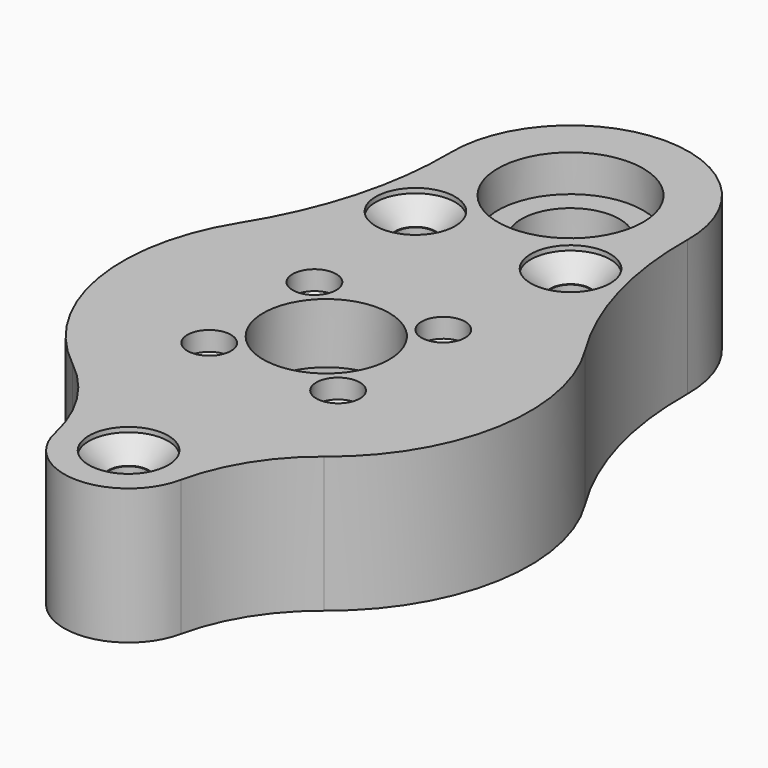
from build123d import *

# Parameters (mm, degrees)
CYLINDER015_R     = 2
CYLINDER015_DEPTH = 30
CYLINDER016_R     = 4.1
CYLINDER016_DEPTH = 0.5
CYLINDER017_R     = 2
CYLINDER017_DEPTH = 30
CYLINDER018_R     = 4.1
CYLINDER018_DEPTH = 0.5
CYLINDER013_R     = 2
CYLINDER013_DEPTH = 30
CYLINDER014_R     = 4.1
CYLINDER014_DEPTH = 0.5
CYLINDER001_R     = 2.4
CYLINDER001_DEPTH = 15.2
CYLINDER_R        = 17.2
CYLINDER_DEPTH    = 3.3
CYLINDER012_R     = 18
CYLINDER012_DEPTH = 11.1
BOX_W             = 10
BOX_H             = 8
BOX_DEPTH         = 3
CYLINDER007_R     = 7.5
CYLINDER007_DEPTH = 3.9
CYLINDER010_R     = 5.06
CYLINDER010_DEPTH = 15
CYLINDER004_R     = 7.5
CYLINDER004_DEPTH = 3.9
CYLINDER021_R     = 1.25
CYLINDER021_DEPTH = 8
CYLINDER022_R     = 2.25
CYLINDER022_DEPTH = 2.5
CYLINDER023_R     = 1.25
CYLINDER023_DEPTH = 8
CYLINDER024_R     = 2.25
CYLINDER024_DEPTH = 2.5
CYLINDER025_R     = 1.25
CYLINDER025_DEPTH = 8
CYLINDER026_R     = 2.25
CYLINDER026_DEPTH = 2.5
CYLINDER019_R     = 1.25
CYLINDER019_DEPTH = 8
CYLINDER020_R     = 2.25
CYLINDER020_DEPTH = 2.5
SKETCH_R          = 6.5
SKETCH_R_2        = 2.5
SKETCH_R_3        = 2
PAD_DEPTH         = 14


with BuildPart() as cone001:
    # Cone001 → Cone001 (revolve)
    with BuildSketch(Plane(origin=(0, -25.5, 18), x_dir=(1, 0, 0), z_dir=(0, -1, 0))):
        Polygon((0, 0), (2.1, 0), (4.1, 2), (0, 2), align=None)
    revolve(axis=Axis((0, -25.5, 18), (0, 0, 1)))


with BuildPart() as cylinders001:
    # Cylinder015 → Cylinder015 (new body)
    with BuildSketch(Plane(origin=(0, -25.5, -9.5), x_dir=(1, 0, 0), z_dir=(0, 0, 1))):
        Circle(CYLINDER015_R)
    extrude(amount=CYLINDER015_DEPTH)


with BuildPart() as fusion015:
    # Cylinder016 → Cylinder016 (new body)
    with BuildSketch(Plane(origin=(0, -25.5, 20), x_dir=(1, 0, 0), z_dir=(0, 0, 1))):
        Circle(CYLINDER016_R)
    extrude(amount=CYLINDER016_DEPTH)

    # Fusion015: union Cone001, CylinderS001
    add(cone001.part)
    add(cylinders001.part)


with BuildPart() as fusion015_1:
    # Fusion015 placement: moved
    add(fusion015.part.moved(Location((8, 47, 0.01))))


with BuildPart() as cone002:
    # Cone002 → Cone002 (revolve)
    with BuildSketch(Plane(origin=(0, -25.5, 18), x_dir=(1, 0, 0), z_dir=(0, -1, 0))):
        Polygon((0, 0), (2.1, 0), (4.1, 2), (0, 2), align=None)
    revolve(axis=Axis((0, -25.5, 18), (0, 0, 1)))


with BuildPart() as cylinders002:
    # Cylinder017 → Cylinder017 (new body)
    with BuildSketch(Plane(origin=(0, -25.5, -9.5), x_dir=(1, 0, 0), z_dir=(0, 0, 1))):
        Circle(CYLINDER017_R)
    extrude(amount=CYLINDER017_DEPTH)


with BuildPart() as fusion016:
    # Cylinder018 → Cylinder018 (new body)
    with BuildSketch(Plane(origin=(0, -25.5, 20), x_dir=(1, 0, 0), z_dir=(0, 0, 1))):
        Circle(CYLINDER018_R)
    extrude(amount=CYLINDER018_DEPTH)

    # Fusion016: union Cone002, CylinderS002
    add(cone002.part)
    add(cylinders002.part)


with BuildPart() as fusion016_1:
    # Fusion016 placement: moved
    add(fusion016.part.moved(Location((-8, 47, 0.01))))


with BuildPart() as cone:
    # Cone → Cone (revolve)
    with BuildSketch(Plane(origin=(0, -25.5, 18), x_dir=(1, 0, 0), z_dir=(0, -1, 0))):
        Polygon((0, 0), (2.1, 0), (4.1, 2), (0, 2), align=None)
    revolve(axis=Axis((0, -25.5, 18), (0, 0, 1)))


with BuildPart() as cylinders:
    # Cylinder013 → Cylinder013 (new body)
    with BuildSketch(Plane(origin=(0, -25.5, -9.5), x_dir=(1, 0, 0), z_dir=(0, 0, 1))):
        Circle(CYLINDER013_R)
    extrude(amount=CYLINDER013_DEPTH)


with BuildPart() as obj1:
    # Cylinder014 → Cylinder014 (new body)
    with BuildSketch(Plane(origin=(0, -25.5, 20), x_dir=(1, 0, 0), z_dir=(0, 0, 1))):
        Circle(CYLINDER014_R)
    extrude(amount=CYLINDER014_DEPTH)

    # Fusion014: union Cone, CylinderS
    add(cone.part)
    add(cylinders.part)


with BuildPart() as obj1_1:
    # Fusion014 placement: moved
    add(obj1.part.moved(Location((0, 0, 0.01))))

    # Fusion017: union Fusion015, Fusion016
    add(fusion015_1.part)
    add(fusion016_1.part)


with BuildPart() as motor_hole:
    # Cylinder001 → Cylinder001 (new body)
    with BuildSketch(Plane.XY):
        Circle(CYLINDER001_R)
    extrude(amount=CYLINDER001_DEPTH)


with BuildPart() as motor_stator:
    # Cylinder → Cylinder (new body)
    with BuildSketch(Plane.XY.offset(11)):
        Circle(CYLINDER_R)
    extrude(amount=CYLINDER_DEPTH)


with BuildPart() as motor:
    # Cylinder012 → Cylinder012 (new body)
    with BuildSketch(Plane.XY):
        Circle(CYLINDER012_R)
    extrude(amount=CYLINDER012_DEPTH)

    # Fusion011: union motor_stator
    add(motor_stator.part)

    # Cut: cut motor_hole
    add(motor_hole.part, mode=Mode.SUBTRACT)


with BuildPart() as wires:
    # Box → Box (new body)
    with BuildSketch(Plane(origin=(-23, -3.8, 11.5), x_dir=(1, 0, 0), z_dir=(0, 0, 1))):
        with Locations((5, 4)):
            Rectangle(BOX_W, BOX_H)
    extrude(amount=BOX_DEPTH)


with BuildPart() as bearing2:
    # Cylinder007 → Cylinder007 (new body)
    with BuildSketch(Plane.XY.offset(6.5)):
        Circle(CYLINDER007_R)
    extrude(amount=CYLINDER007_DEPTH)


with BuildPart() as bearingaxis:
    # Cylinder010 → Cylinder010 (new body)
    with BuildSketch(Plane.XY.offset(6)):
        Circle(CYLINDER010_R)
    extrude(amount=CYLINDER010_DEPTH)


with BuildPart() as bearings:
    # Cylinder004 → Cylinder004 (new body)
    with BuildSketch(Plane.XY.offset(16.7)):
        Circle(CYLINDER004_R)
    extrude(amount=CYLINDER004_DEPTH)

    # Fusion007: union Bearing2, BearingAxis
    add(bearing2.part)
    add(bearingaxis.part)


with BuildPart() as bearings_1:
    # Fusion007 placement: moved
    add(bearings.part.moved(Location((0, 31.5, 0))))


with BuildPart() as cylinder021:
    # Cylinder021 → Cylinder021 (new body)
    with BuildSketch(Plane.XY.offset(-10)):
        Circle(CYLINDER021_R)
    extrude(amount=CYLINDER021_DEPTH)


with BuildPart() as cylinder022:
    # Cylinder022 → Cylinder022 (new body)
    with BuildSketch(Plane.XY.offset(-2)):
        Circle(CYLINDER022_R)
    extrude(amount=CYLINDER022_DEPTH)


with BuildPart() as fusion020:
    # Cone004 → Cone004 (revolve)
    with BuildSketch(Plane(origin=(0, 0, -3), x_dir=(1, 0, 0), z_dir=(0, -1, 0))):
        Polygon((0, 0), (1.25, 0), (2.25, 1), (0, 1), align=None)
    revolve(axis=Axis((0, 0, -3), (0, 0, 1)))

    # Fusion020: union Cylinder021, Cylinder022
    add(cylinder021.part)
    add(cylinder022.part)


with BuildPart() as fusion020_1:
    # Fusion020 placement: moved
    add(fusion020.part.moved(Location((6.65, 6.785, 20.51))))


with BuildPart() as cylinder023:
    # Cylinder023 → Cylinder023 (new body)
    with BuildSketch(Plane.XY.offset(-10)):
        Circle(CYLINDER023_R)
    extrude(amount=CYLINDER023_DEPTH)


with BuildPart() as cylinder024:
    # Cylinder024 → Cylinder024 (new body)
    with BuildSketch(Plane.XY.offset(-2)):
        Circle(CYLINDER024_R)
    extrude(amount=CYLINDER024_DEPTH)


with BuildPart() as fusion021:
    # Cone005 → Cone005 (revolve)
    with BuildSketch(Plane(origin=(0, 0, -3), x_dir=(1, 0, 0), z_dir=(0, -1, 0))):
        Polygon((0, 0), (1.25, 0), (2.25, 1), (0, 1), align=None)
    revolve(axis=Axis((0, 0, -3), (0, 0, 1)))

    # Fusion021: union Cylinder023, Cylinder024
    add(cylinder023.part)
    add(cylinder024.part)


with BuildPart() as fusion021_1:
    # Fusion021 placement: moved
    add(fusion021.part.moved(Location((-6.65, -6.79, 20.51))))


with BuildPart() as cylinder025:
    # Cylinder025 → Cylinder025 (new body)
    with BuildSketch(Plane.XY.offset(-10)):
        Circle(CYLINDER025_R)
    extrude(amount=CYLINDER025_DEPTH)


with BuildPart() as cylinder026:
    # Cylinder026 → Cylinder026 (new body)
    with BuildSketch(Plane.XY.offset(-2)):
        Circle(CYLINDER026_R)
    extrude(amount=CYLINDER026_DEPTH)


with BuildPart() as fusion022:
    # Cone006 → Cone006 (revolve)
    with BuildSketch(Plane(origin=(0, 0, -3), x_dir=(1, 0, 0), z_dir=(0, -1, 0))):
        Polygon((0, 0), (1.25, 0), (2.25, 1), (0, 1), align=None)
    revolve(axis=Axis((0, 0, -3), (0, 0, 1)))

    # Fusion022: union Cylinder025, Cylinder026
    add(cylinder025.part)
    add(cylinder026.part)


with BuildPart() as fusion022_1:
    # Fusion022 placement: moved
    add(fusion022.part.moved(Location((6.65, -6.79, 20.51))))


with BuildPart() as cylinder019:
    # Cylinder019 → Cylinder019 (new body)
    with BuildSketch(Plane.XY.offset(-10)):
        Circle(CYLINDER019_R)
    extrude(amount=CYLINDER019_DEPTH)


with BuildPart() as cylinder020:
    # Cylinder020 → Cylinder020 (new body)
    with BuildSketch(Plane.XY.offset(-2)):
        Circle(CYLINDER020_R)
    extrude(amount=CYLINDER020_DEPTH)


with BuildPart() as obj2:
    # Cone003 → Cone003 (revolve)
    with BuildSketch(Plane(origin=(0, 0, -3), x_dir=(1, 0, 0), z_dir=(0, -1, 0))):
        Polygon((0, 0), (1.25, 0), (2.25, 1), (0, 1), align=None)
    revolve(axis=Axis((0, 0, -3), (0, 0, 1)))

    # Fusion019: union Cylinder019, Cylinder020
    add(cylinder019.part)
    add(cylinder020.part)


with BuildPart() as obj2_1:
    # Fusion019 placement: moved
    add(obj2.part.moved(Location((-6.65, 6.785, 20.51))))

    # Fusion023: union Fusion020, Fusion021, Fusion022
    add(fusion020_1.part)
    add(fusion021_1.part)
    add(fusion022_1.part)

    # Fusion024: union obj1, Motor, Wires, Bearings
    add(obj1_1.part)
    add(motor.part)
    add(wires.part)
    add(bearings_1.part)


with BuildPart() as hip:
    # Sketch → Pad (new body)
    with BuildSketch(Plane.XY.offset(14)):
        with BuildLine():
            ThreePointArc((12.20842, 31.303575), (0, 43.71), (-12.20842, 31.303575))
            ThreePointArc((-17.815108, 11.11854), (-13.553348, 20.805961), (-12.20842, 31.303575))
            ThreePointArc((-17.815108, 11.11854), (-20.685819, -3.61896), (-12.982142, -16.506483))
            ThreePointArc((-6.502297, -26.893782), (-8.833051, -21.132971), (-12.982142, -16.506483))
            ThreePointArc((-6.502297, -26.893782), (0, -32.15), (6.502297, -26.893782))
            ThreePointArc((12.982142, -16.506483), (8.833051, -21.132971), (6.502297, -26.893782))
            ThreePointArc((12.982142, -16.506483), (20.685819, -3.61896), (17.815108, 11.11854))
            ThreePointArc((12.20842, 31.303575), (13.553348, 20.805961), (17.815108, 11.11854))
        make_face()
        Circle(SKETCH_R, mode=Mode.SUBTRACT)
        with Locations((0, 31.5)):
            Circle(SKETCH_R_2, mode=Mode.SUBTRACT)
        with Locations((0, -25.5)):
            Circle(SKETCH_R_3, mode=Mode.SUBTRACT)
    extrude(amount=PAD_DEPTH)


with BuildPart() as hip_1:
    # Body placement: moved
    add(hip.part.moved(Location((0, 0, -7.5))))

    # Cut004: cut obj2
    add(obj2_1.part, mode=Mode.SUBTRACT)


solid = hip_1.part
